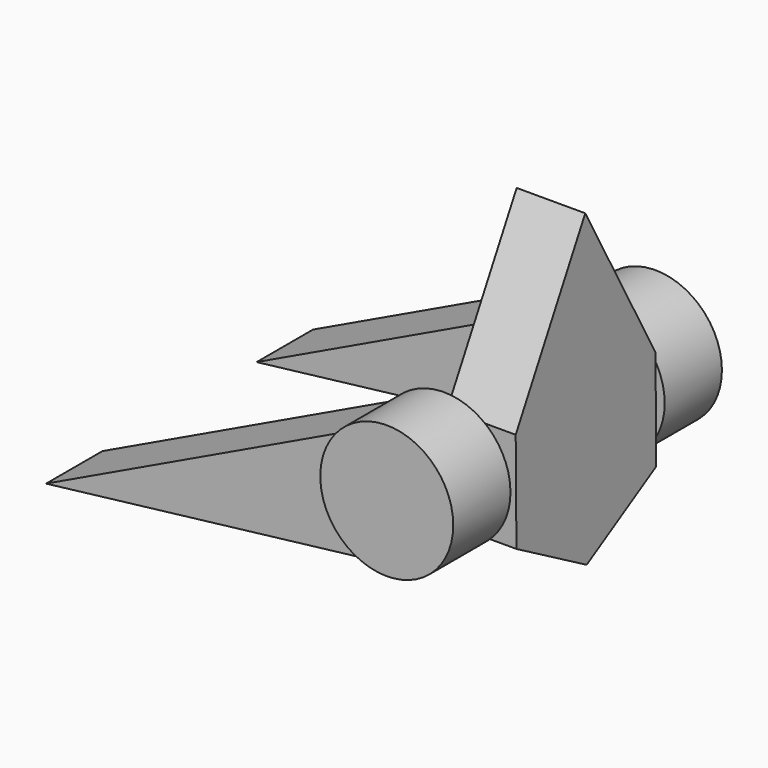
from build123d import *

# Parameters (mm, degrees)
F0_R     = 91.1122674666
F1_DEPTH = 98.044
F3_DEPTH = 96.52
F7_DEPTH = 93.98
F9_DEPTH = 93.98


with BuildPart() as f1:
    # F0 (on Front) → F1 (new body)
    with BuildSketch(Plane.XZ):
        Circle(F0_R)
    extrude(amount=F1_DEPTH)

    # F2 (on face) → F3 (join)
    with BuildSketch(Plane(origin=(0, 0, 0), x_dir=(-1, 0, 0), z_dir=(0, 1, 0))):
        with BuildLine():
            Line((468.101888895, -132.2413384914), (70.8235846049, 57.3189771944))
            ThreePointArc((70.8235846049, 57.3189771944), (85.8904612467, 30.4018741152), (91.1122674666, 0))
            ThreePointArc((91.1122674666, 0), (77.5058760181, -47.8986896018), (40.7505647154, -81.4913293441))
            Line((40.7505647154, -81.4913293441), (468.101888895, -132.2413384914))
        make_face()
    extrude(amount=-F3_DEPTH)


with BuildPart() as f4_1:
    # F4: instance of F1
    add(f1.part.mirror(Plane.XZ))


with BuildPart() as f4_1_1:
    # F5: moved
    add(f4_1.part.moved(Location((0, 264.16, 0))))


with BuildPart() as f7:
    # F6 (on Right) → F7 (new body)
    with BuildSketch(Plane.YZ):
        Polygon((124.4942835074, 138.2647206043), (5.3680100936, 68.0680374647), (6.5969842471, -70.1966831397), (126.9522318143, -138.2647206043), (246.0785052281, -68.0680374647), (244.8495310747, 70.1966831397), align=None)
    extrude(amount=F7_DEPTH)

    # F8 (on face) → F9 (join)
    with BuildSketch(Plane.YZ.offset(93.98)):
        Polygon((124.4942835074, 286.8865728378), (5.3680100936, 68.0680374647), (124.4942835074, 138.2647206043), (244.8495310747, 70.1966831397), align=None)
    extrude(amount=-F9_DEPTH)


solid = Compound([f1.part, f4_1_1.part, f7.part])
